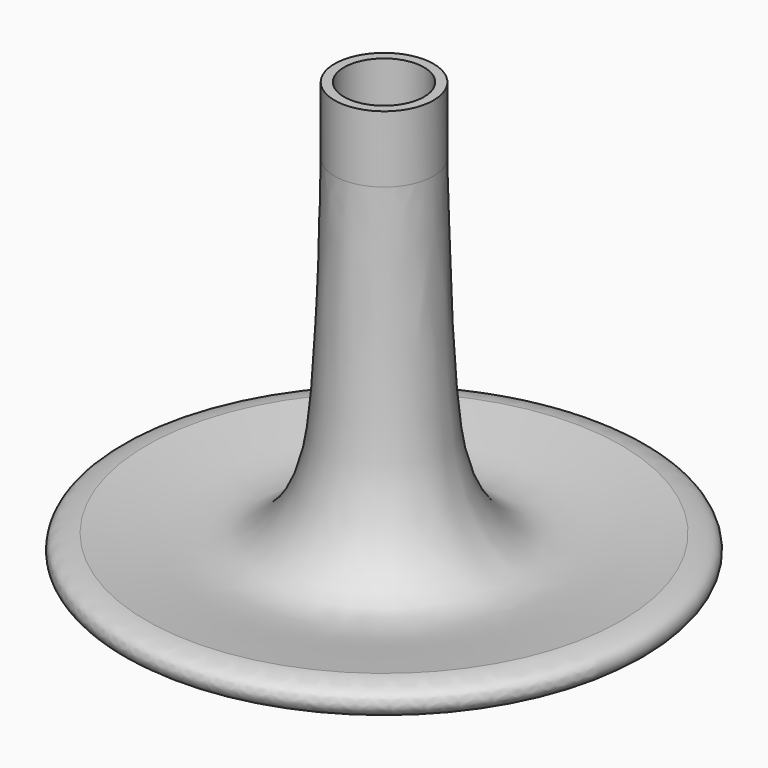
from build123d import *


with BuildPart() as f1:
    # F0 (on Front) → F1 (revolve)
    with BuildSketch(Plane.XZ):
        with BuildLine():
            Line((1.5875, 6.667825859), (1.5875, 0))
            Line((1.5875, 0), (30.3576290607, 0))
            add(Edge.make_bspline(
                [(30.3576290607, 0), (30.83041657, 0.2888116275), (31.5452742802, 0.9695100401), (31.3646140846, 2.2653434662), (30.573937311, 2.8565264178), (29.2405122483, 3.2049277973), (28.4112141117, 3.2738227195), (28.2629951835, 3.2793318387)],
                knots=[0.6936657727, 0.6936657727, 0.6936657727, 0.6936657727, 0.7589791665, 0.815449522, 0.8670419918, 0.9318776982, 0.9830086816, 0.9830086816, 0.9830086816, 0.9830086816], degree=3))
            add(Edge.make_bspline(
                [(28.2629951835, 3.2793318387), (26.0331390431, 2.9753567081), (21.4868936582, 2.3556102098), (13.3513474751, 0.9662615501), (8.1683742514, 7.679850131), (6.5808118766, 16.8610745577), (6.0813470903, 33.9259559216), (5.8949944364, 42.0552409752), (5.8893128298, 42.5943061709)],
                knots=[0, 0, 0, 0, 0.1427768732, 0.2910944294, 0.4354454991, 0.6016735837, 0.8340267107, 0.9811637063, 0.9811637063, 0.9811637063, 0.9811637063], degree=3))
            add(Edge.make_bspline(
                [(5.8893128298, 42.5943061709), (5.8885854777, 42.6633166214), (5.8889491537, 42.6895056884), (5.8893128298, 42.7156947553)],
                knots=[0.9811637063, 0.9811637063, 0.9811637063, 0.9811637063, 1, 1, 1, 1], degree=3))
            Line((5.8893128298, 42.7156947553), (5.8893128298, 50.5389739863))
            Line((5.8893128298, 50.5389739863), (4.7625, 50.5389739863))
            Line((4.7625, 50.5389739863), (4.7625, 41.0139739863))
            Line((4.7625, 41.0139739863), (0, 41.0139739863))
            Line((0, 41.0139739863), (0, 6.667825859))
            Line((0, 6.667825859), (1.5875, 6.667825859))
        make_face()
        with BuildLine():
            Line((30.3576290607, 0), (1.5875, 0))
            Line((1.5875, 0), (1.5875, -12.9610260137))
            add(Edge.make_bspline(
                [(1.5875, -12.9610260137), (1.8724662747, -11.5686269888), (2.4845312419, -8.5779619908), (4.3063683854, -1.5815812013), (18.4278924431, -1.1535487248), (27.4095754611, -1.111245668), (29.7156925528, -0.3921396483), (30.3576290607, 0)],
                knots=[0, 0, 0, 0, 0.1137599478, 0.2443393653, 0.4401724208, 0.6049852319, 0.6936657727, 0.6936657727, 0.6936657727, 0.6936657727], degree=3))
        make_face()
        with BuildLine():
            add(Edge.make_bspline(
                [(5.8893128298, 42.5943061709), (5.8885854777, 42.6633166214), (5.8889491537, 42.6895056884), (5.8893128298, 42.7156947553)],
                knots=[0.9811637063, 0.9811637063, 0.9811637063, 0.9811637063, 1, 1, 1, 1], degree=3))
            Line((5.8893128298, 42.5943061709), (5.8893128298, 42.7156947553))
        make_face()
    revolve(axis=Axis((0, 0, 23.8408999226), (0, 0, -1)))


solid = f1.part
